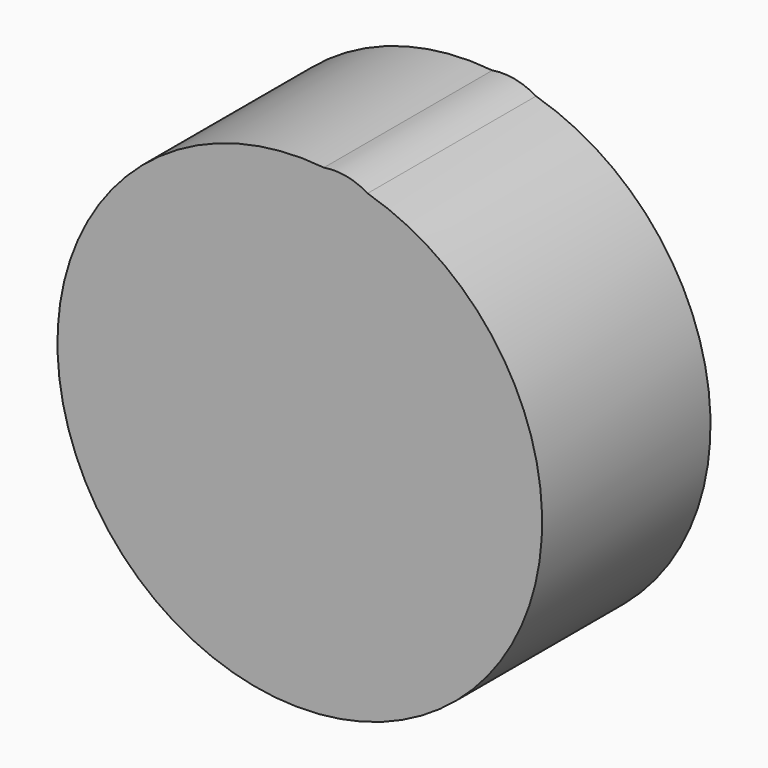
from build123d import *

# Parameters (mm, degrees)
F1_DEPTH = 25.4


with BuildPart() as f1:
    # F0 (on Front) → F1 (new body)
    with BuildSketch(Plane.XZ):
        with BuildLine():
            ThreePointArc((-1.2611728175, 2.9012616412), (-4.9770665874, -10.5640084083), (7.6974119231, -4.6921297908))
            ThreePointArc((7.6974119231, -4.6921297908), (6.7124589599, -0.9247639968), (4.0096672194, 1.8784652435))
            ThreePointArc((4.0096672194, 1.8784652435), (1.3977705379, 2.5110877119), (-1.2611728175, 2.9012616412))
        make_face()
        with BuildLine():
            ThreePointArc((4.0096672194, 1.8784652435), (6.7124589599, -0.9247639968), (7.6974119231, -4.6921297908))
            ThreePointArc((7.6974119231, -4.6921297908), (-4.9770665874, -10.5640084083), (-1.2611728175, 2.9012616412))
            ThreePointArc((-1.2611728175, 2.9012616412), (-25.8559693108, -45.8181944607), (25.0702711814, -26.1965878308))
            ThreePointArc((25.0702711814, -26.1965878308), (19.2199116299, -8.6483853276), (4.0096672194, 1.8784652435))
        make_face()
        with BuildLine():
            ThreePointArc((-1.2611728175, 2.9012616412), (1.3977705379, 2.5110877119), (4.0096672194, 1.8784652435))
            ThreePointArc((4.0096672194, 1.8784652435), (1.4663162984, 2.864328826), (-1.2611728175, 2.9012616412))
        make_face()
    extrude(amount=F1_DEPTH)


solid = f1.part
